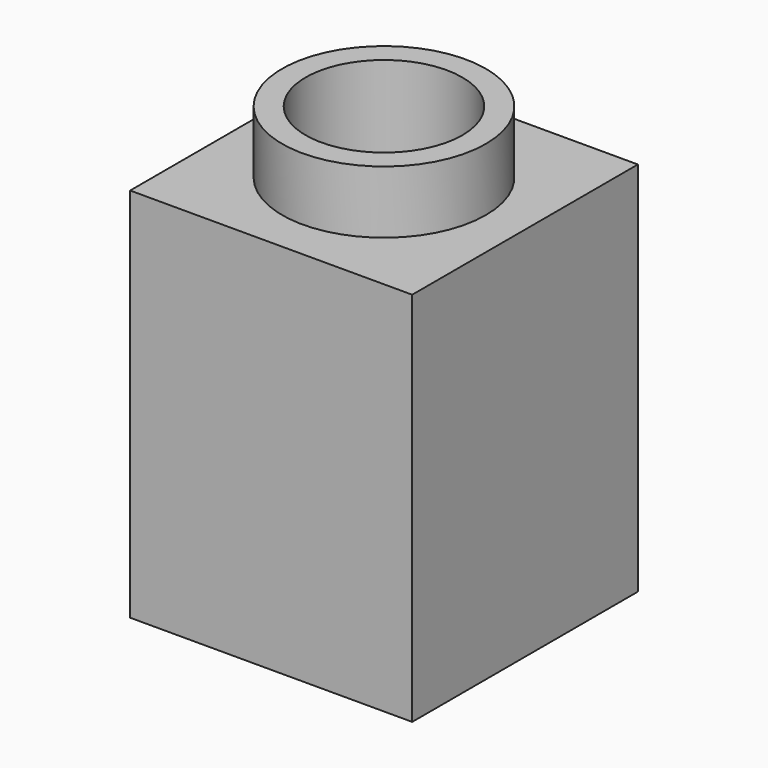
from build123d import *

# Parameters (mm, degrees)
SKETCH_W     = 9
SKETCH_H     = 9
SKETCH_R     = 2.5
PAD_DEPTH    = 12
SKETCH001_R  = 3.25
PAD001_DEPTH = 2
SKETCH002_R  = 2.5
POCKET_DEPTH = 2


with BuildPart() as part:
    # Sketch → Pad (new body)
    with BuildSketch(Plane.XY):
        with Locations((4.5, -4.5)):
            Rectangle(SKETCH_W, SKETCH_H)
        with Locations((4.5, -4.5)):
            Circle(SKETCH_R, mode=Mode.SUBTRACT)
    extrude(amount=PAD_DEPTH)

    # Sketch001 (on Face7 of Pad) → Pad001 (join)
    with BuildSketch(Plane.XY.offset(12)):
        with Locations((4.5, -4.5)):
            Circle(SKETCH001_R)
    extrude(amount=PAD001_DEPTH)

    # Sketch002 (on Face10 of Pad001) → Pocket (cut)
    with BuildSketch(Plane.XY.offset(14)):
        with Locations((4.5, -4.5)):
            Circle(SKETCH002_R)
    extrude(amount=-POCKET_DEPTH, mode=Mode.SUBTRACT)


solid = part.part
